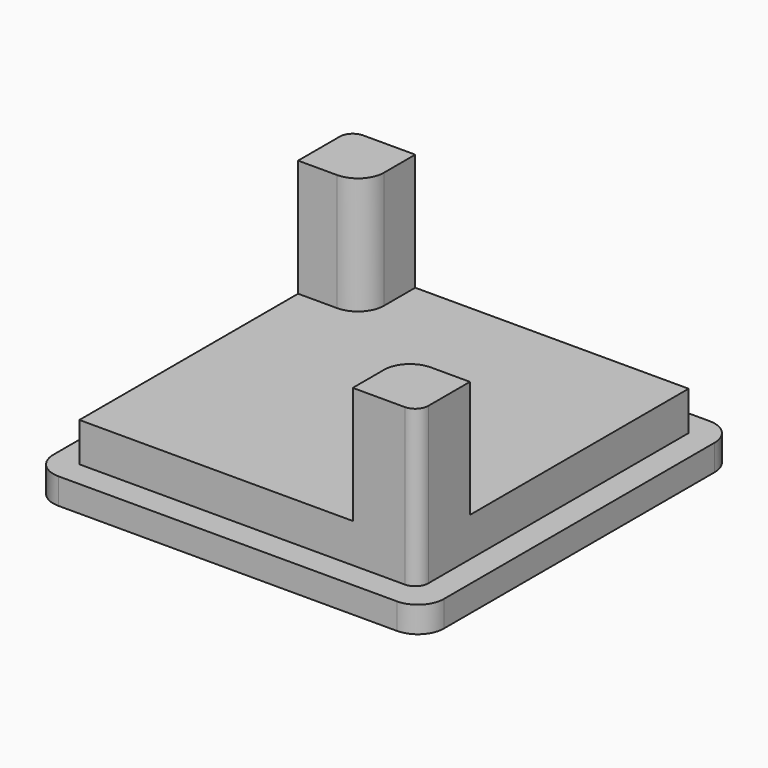
from build123d import *

# Parameters (mm, degrees)
BOX013_W     = 26
BOX013_H     = 26
BOX013_DEPTH = 3
BOX014_W     = 5
BOX014_H     = 5
BOX014_DEPTH = 9
BOX012_W     = 30
BOX012_H     = 30
BOX012_DEPTH = 2
BOX015_W     = 5
BOX015_H     = 5
BOX015_DEPTH = 9
FILLET001_R  = 2
FILLET002_R  = 2
FILLET003_R  = 1


with BuildPart() as obj1:
    # Box013 → Box013 (new body)
    with BuildSketch(Plane(origin=(-13, -13, -10), x_dir=(1, 0, 0), z_dir=(0, 0, 1))):
        with Locations((13, 13)):
            Rectangle(BOX013_W, BOX013_H)
    extrude(amount=BOX013_DEPTH)


with BuildPart() as obj2:
    # Box014 → Box014 (new body)
    with BuildSketch(Plane(origin=(-13, 8, -7), x_dir=(1, 0, 0), z_dir=(0, 0, 1))):
        with Locations((2.5, 2.5)):
            Rectangle(BOX014_W, BOX014_H)
    extrude(amount=BOX014_DEPTH)


with BuildPart() as obj3:
    # Box012 → Box012 (new body)
    with BuildSketch(Plane(origin=(-15, -15, -12), x_dir=(1, 0, 0), z_dir=(0, 0, 1))):
        with Locations((15, 15)):
            Rectangle(BOX012_W, BOX012_H)
    extrude(amount=BOX012_DEPTH)


with BuildPart() as fillet003:
    # Box015 → Box015 (new body)
    with BuildSketch(Plane(origin=(8, -13, -7), x_dir=(1, 0, 0), z_dir=(0, 0, 1))):
        with Locations((2.5, 2.5)):
            Rectangle(BOX015_W, BOX015_H)
    extrude(amount=BOX015_DEPTH)

    # Fusion004: union obj1, obj2, obj3
    add(obj1.part)
    add(obj2.part)
    add(obj3.part)

    # Fillet001
    fillet001_edges = [fillet003.edges().sort_by_distance(p)[0] for p in [
        (-15, -15, -11),
        (-15, 15, -11),
        (15, 15, -11),
        (15, -15, -11),
    ]]
    fillet(fillet001_edges, radius=FILLET001_R)

    # Fillet002
    fillet002_edges = [fillet003.edges().sort_by_distance(p)[0] for p in [
        (-8, 8, -2.5),
        (8, -8, -2.5),
    ]]
    fillet(fillet002_edges, radius=FILLET002_R)

    # Fillet003
    fillet003_edges = [fillet003.edges().sort_by_distance(p)[0] for p in [
        (-13, 13, -2.5),
        (13, -13, -2.5),
    ]]
    fillet(fillet003_edges, radius=FILLET003_R)


solid = fillet003.part
